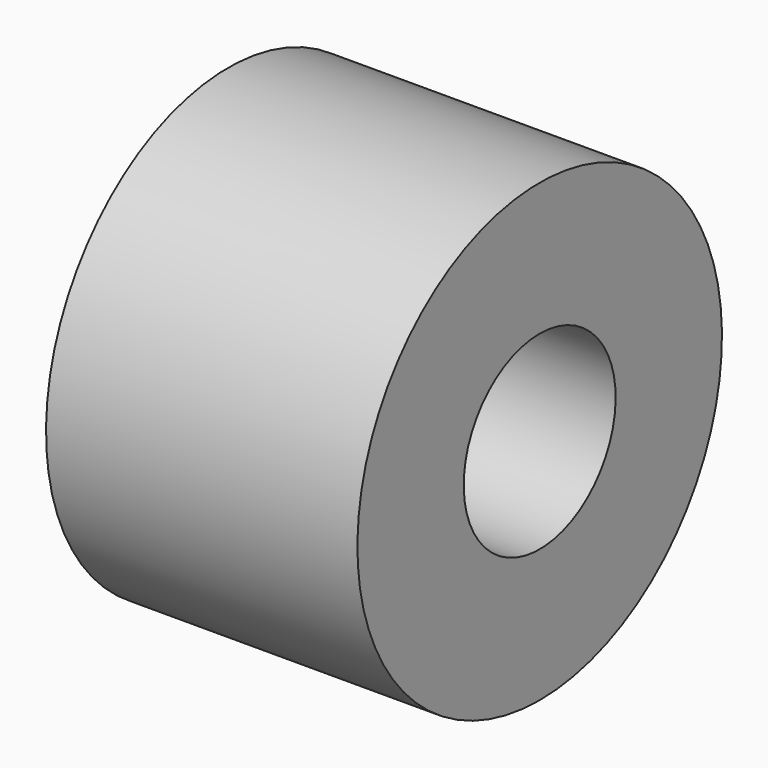
from build123d import *

# Parameters (mm, degrees)
CYLINDER065_R     = 1.25
CYLINDER065_DEPTH = 5
CYLINDER044_R     = 3
CYLINDER044_DEPTH = 4.1


with BuildPart() as b_w012:
    # Cylinder065 → Cylinder065 (new body)
    with BuildSketch(Plane(origin=(5, 16, 7), x_dir=(0, 0, 1), z_dir=(-1, 0, 0))):
        Circle(CYLINDER065_R)
    extrude(amount=CYLINDER065_DEPTH)


with BuildPart() as cut027:
    # Cylinder044 → Cylinder044 (new body)
    with BuildSketch(Plane(origin=(-1, 16, 7), x_dir=(0, 0, -1), z_dir=(1, 0, 0))):
        Circle(CYLINDER044_R)
    extrude(amount=CYLINDER044_DEPTH)

    # Cut027: cut B_W012
    add(b_w012.part, mode=Mode.SUBTRACT)


solid = cut027.part
